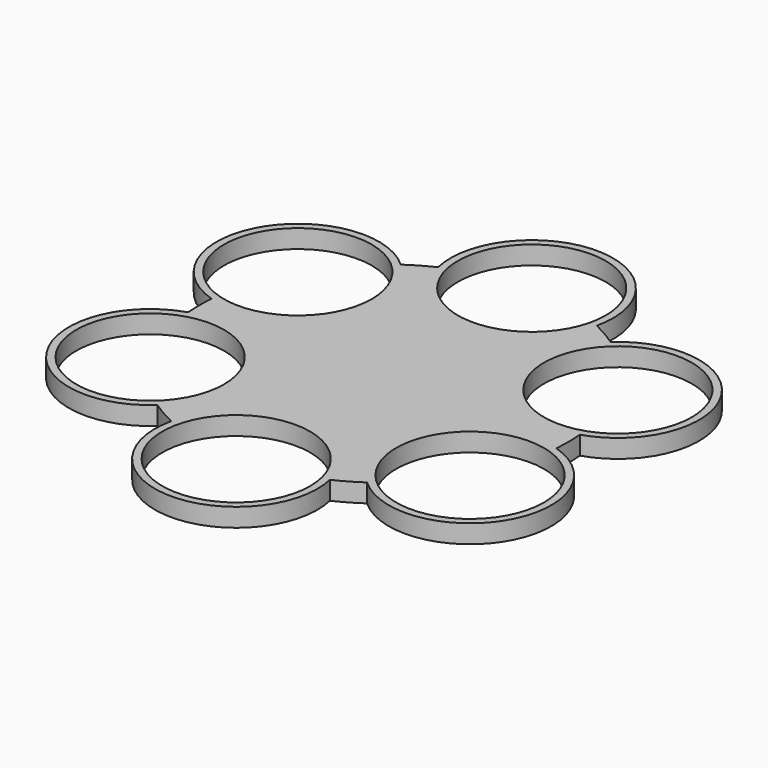
from build123d import *

# Parameters (mm, degrees)
F0_R     = 19.75
F1_DEPTH = 1.5
F2_R     = 20
F2_R_2   = 19.75
F3_DEPTH = 5


with BuildPart() as f1:
    # F0 (on Top) → F1 (new body)
    with BuildSketch(Plane.XY):
        Circle(F0_R)
    extrude(amount=F1_DEPTH)

    # F2 (on face) → F3 (join)
    with BuildSketch(Plane.XY.offset(1.5)):
        with BuildLine():
            ThreePointArc((-21.450777, 45.114906), (-24.981827, 43.259668), (-28.353602, 41.128625))
            ThreePointArc((-28.353602, 41.128625), (-62.328223, 35.962856), (-49.814599, 3.957088))
            ThreePointArc((-49.814599, 3.957088), (-49.971517, -0.01749), (-49.811817, -3.991956))
            ThreePointArc((-49.811817, -3.991956), (-62.325441, -35.997725), (-28.35082, -41.163494))
            ThreePointArc((-28.35082, -41.163494), (-24.981447, -43.291217), (-21.453279, -45.143759))
            ThreePointArc((-21.453279, -45.143759), (0.007718, -71.983759), (21.468715, -45.143759))
            ThreePointArc((21.468715, -45.143759), (25.00036, -43.287952), (28.372764, -41.156421))
            ThreePointArc((28.372764, -41.156421), (62.347385, -35.990652), (49.833762, -3.984883))
            ThreePointArc((49.833762, -3.984883), (49.99283, 0.003594), (49.833188, 3.992048))
            ThreePointArc((49.833188, 3.992048), (62.355666, 35.996817), (28.379209, 41.165769))
            ThreePointArc((28.379209, 41.165769), (25, 43.30127), (21.460997, 45.16))
            ThreePointArc((21.460997, 45.16), (-0.023119, 71.999988), (-21.450777, 45.114906))
        make_face()
        with Locations((0.007718, -49.983759)):
            Circle(F2_R, mode=Mode.SUBTRACT)
        with Locations((-43.272882, -24.997725)):
            Circle(F2_R, mode=Mode.SUBTRACT)
        Circle(F2_R_2, mode=Mode.SUBTRACT)
        with Locations((43.294826, -24.990652)):
            Circle(F2_R, mode=Mode.SUBTRACT)
        with Locations((-43.275664, 24.962856)):
            Circle(F2_R, mode=Mode.SUBTRACT)
        with Locations((0, 50)):
            Circle(F2_R, mode=Mode.SUBTRACT)
        with Locations((43.30127, 25)):
            Circle(F2_R, mode=Mode.SUBTRACT)
        Circle(F2_R_2)
    extrude(amount=F3_DEPTH)


solid = f1.part
